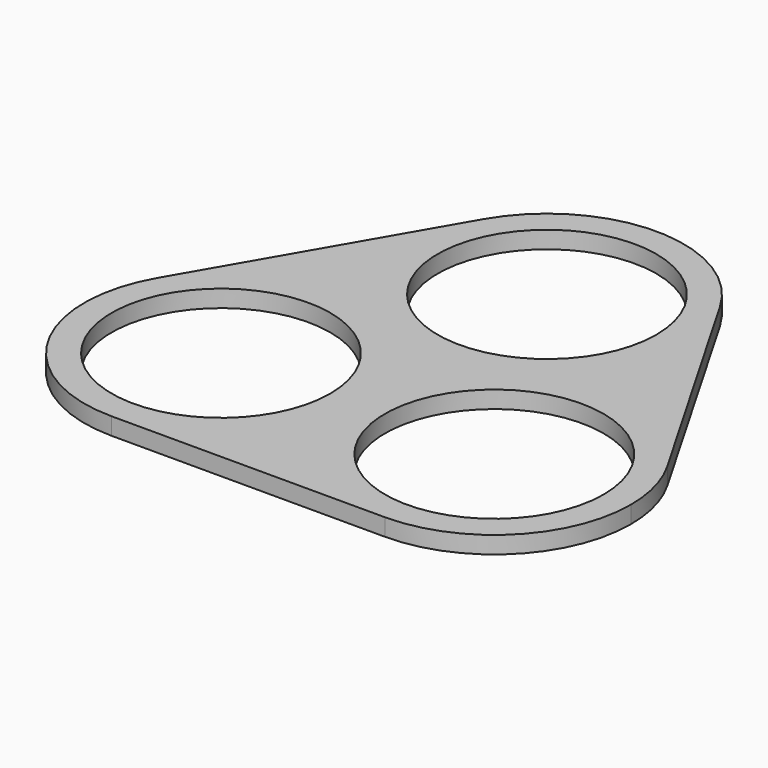
from build123d import *

# Parameters (mm, degrees)
F0_R     = 6.35
F1_DEPTH = 1


with BuildPart() as f1:
    # F0 (on Top) → F1 (new body)
    with BuildSketch(Plane.XY):
        with BuildLine():
            ThreePointArc((-3.9687500424, -6.8740766181), (-7.6670362525, -2.0543761469), (-6.8740766425, 3.96875))
            Line((-6.8740766425, 3.96875), (-14.8115766425, -9.7794032851))
            ThreePointArc((-14.8115766425, -9.7794032851), (-9.9918761941, -6.0811170452), (-3.9687500424, -6.8740766181))
        make_face()
        with BuildLine():
            ThreePointArc((0, -13.7481532851), (-1.0634233697, -9.7794032639), (-3.9687500424, -6.8740766181))
            ThreePointArc((-3.9687500424, -6.8740766181), (-9.9918761941, -6.0811170452), (-14.8115766425, -9.7794032851))
            ThreePointArc((-14.8115766425, -9.7794032851), (-14.8115766425, -17.7169032851), (-7.9375, -21.6856532851))
            ThreePointArc((-7.9375, -21.6856532851), (-2.3248399243, -19.3608133607), (0, -13.7481532851))
        make_face()
        with Locations((-7.9375, -13.7481532851)):
            Circle(F0_R, mode=Mode.SUBTRACT)
        with BuildLine():
            ThreePointArc((7.9375, -21.6856532851), (2.3248399243, -19.3608133607), (0, -13.7481532851))
            ThreePointArc((0, -13.7481532851), (-2.3248399243, -19.3608133607), (-7.9375, -21.6856532851))
            Line((-7.9375, -21.6856532851), (7.9375, -21.6856532851))
        make_face()
        with BuildLine():
            ThreePointArc((14.8115766425, -9.7794032851), (9.9918761512, -6.0811170337), (3.9687499653, -6.8740766625))
            ThreePointArc((3.9687499653, -6.8740766625), (1.0634233475, -9.7794033024), (0, -13.7481532851))
            ThreePointArc((0, -13.7481532851), (2.3248399243, -19.3608133607), (7.9375, -21.6856532851))
            ThreePointArc((7.9375, -21.6856532851), (13.5501600757, -19.3608133607), (15.875, -13.7481532851))
            ThreePointArc((15.875, -13.7481532851), (15.6045362462, -11.6937771146), (14.8115766425, -9.7794032851))
        make_face()
        with Locations((7.9375, -13.7481532851)):
            Circle(F0_R, mode=Mode.SUBTRACT)
        with BuildLine():
            ThreePointArc((6.8740766425, 3.96875), (7.6670362462, 2.0543761705), (7.9375, 0))
            ThreePointArc((7.9375, 0), (6.8740766325, -3.9687500173), (3.9687499653, -6.8740766625))
            ThreePointArc((3.9687499653, -6.8740766625), (9.9918761512, -6.0811170337), (14.8115766425, -9.7794032851))
            Line((14.8115766425, -9.7794032851), (6.8740766425, 3.96875))
        make_face()
        with BuildLine():
            ThreePointArc((0, -13.7481532851), (1.0634233475, -9.7794033024), (3.9687499653, -6.8740766625))
            ThreePointArc((3.9687499653, -6.8740766625), (-4.45e-08, -7.9375), (-3.9687500424, -6.8740766181))
            ThreePointArc((-3.9687500424, -6.8740766181), (-1.0634233697, -9.7794032639), (0, -13.7481532851))
        make_face()
        with BuildLine():
            ThreePointArc((3.9687499653, -6.8740766625), (6.8740766325, -3.9687500173), (7.9375, 0))
            ThreePointArc((7.9375, 0), (7.6670362462, 2.0543761705), (6.8740766425, 3.96875))
            ThreePointArc((6.8740766425, 3.96875), (0, 7.9375), (-6.8740766425, 3.96875))
            ThreePointArc((-6.8740766425, 3.96875), (-7.6670362525, -2.0543761469), (-3.9687500424, -6.8740766181))
            ThreePointArc((-3.9687500424, -6.8740766181), (-4.45e-08, -7.9375), (3.9687499653, -6.8740766625))
        make_face()
        Circle(F0_R, mode=Mode.SUBTRACT)
    extrude(amount=F1_DEPTH)


solid = f1.part
